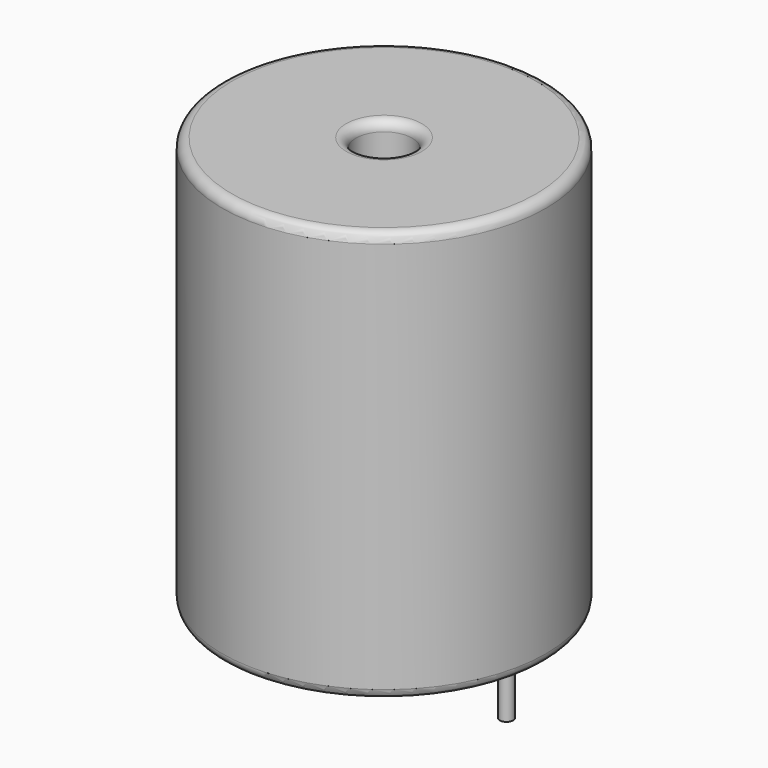
from build123d import *

# Parameters (mm, degrees)
SKETCH001_R       = 0.35
PAD001_DEPTH      = 10.67
PAD001_DEPTH_BACK = 3.5
SKETCH_R          = 8.4
SKETCH_R_2        = 1.46
PAD_DEPTH         = 21.34
FILLET_R          = 0.5


with BuildPart() as pad001:
    # Sketch001 → Pad001 (new body, two sides)
    with BuildSketch(Plane.XY.offset(0.5)) as pad001_sk:
        Circle(SKETCH001_R)
        with Locations((12.7, 0)):
            Circle(SKETCH001_R)
    extrude(amount=PAD001_DEPTH)
    extrude(pad001_sk.sketch, amount=-PAD001_DEPTH_BACK)


with BuildPart() as fillet_body:
    # Sketch → Pad (new body)
    with BuildSketch(Plane.XY.offset(0.1)):
        with Locations((6.35, 0)):
            Circle(SKETCH_R)
        with Locations((6.35, 0)):
            Circle(SKETCH_R_2, mode=Mode.SUBTRACT)
    extrude(amount=PAD_DEPTH)

    # Fillet
    fillet_edges = [fillet_body.edges().sort_by_distance(p)[0] for p in [
        (4.89, 0, 21.44),
        (-2.05, 0, 21.44),
        (-2.05, 0, 0.1),
    ]]
    fillet(fillet_edges, radius=FILLET_R)


solid = Compound([pad001.part, fillet_body.part])
